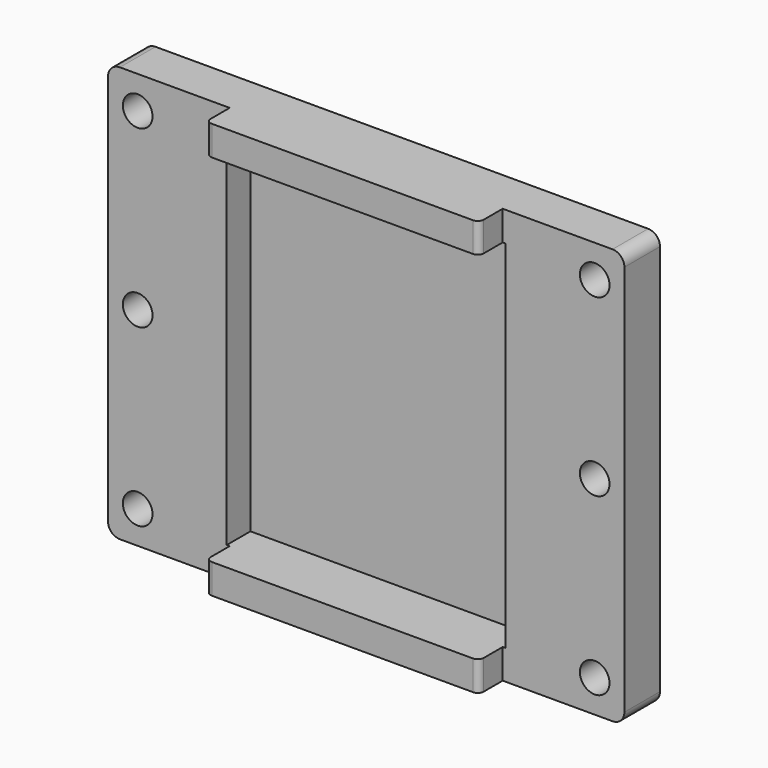
from build123d import *

# Parameters (mm, degrees)
F0_W     = 87
F0_H     = 70
F0_R     = 2.5
F1_DEPTH = 7.5
F2_W     = 47
F2_H     = 60
F3_DEPTH = 5
F4_W     = 46
F4_H     = 5
F5_DEPTH = 5
F6_R     = 1
F7_R     = 2


with BuildPart() as f1:
    # F0 (on Front) → F1 (new body)
    with BuildSketch(Plane.XZ):
        with Locations((-55.98273, 20.347756)):
            Rectangle(F0_W, F0_H)
        with Locations((-94.48273, -9.152244)):
            Circle(F0_R, mode=Mode.SUBTRACT)
        with Locations((-17.48273, -9.152244)):
            Circle(F0_R, mode=Mode.SUBTRACT)
        with Locations((-94.48273, 20.347756)):
            Circle(F0_R, mode=Mode.SUBTRACT)
        with Locations((-94.48273, 49.847756)):
            Circle(F0_R, mode=Mode.SUBTRACT)
        with Locations((-17.48273, 20.347756)):
            Circle(F0_R, mode=Mode.SUBTRACT)
        with Locations((-17.48273, 49.847756)):
            Circle(F0_R, mode=Mode.SUBTRACT)
    extrude(amount=F1_DEPTH)

    # F2 (on face) → F3 (cut)
    with BuildSketch(Plane.XZ.offset(7.5)):
        with Locations((-55.98273, 20.347756)):
            Rectangle(F2_W, F2_H)
    extrude(amount=-F3_DEPTH, mode=Mode.SUBTRACT)

    # F4 (on face) → F5 (join)
    with BuildSketch(Plane.XZ.offset(7.5)):
        with Locations((-55.98273, 52.847756)):
            Rectangle(F4_W, F4_H)
        with Locations((-55.98273, -12.152244)):
            Rectangle(F4_W, F4_H)
    extrude(amount=F5_DEPTH)

    # F6
    f6_edges = [f1.edges().sort_by_distance(p)[0] for p in [
        (-78.98273, -12.5, 52.847756),
        (-32.98273, -12.5, 52.847756),
        (-32.98273, -12.5, -12.152244),
        (-78.98273, -12.5, -12.152244),
    ]]
    fillet(f6_edges, radius=F6_R)

    # F7
    f7_edges = [f1.edges().sort_by_distance(p)[0] for p in [
        (-99.48273, -3.75, -14.652244),
        (-12.48273, -3.75, -14.652244),
        (-12.48273, -3.75, 55.347756),
        (-99.48273, -3.75, 55.347756),
    ]]
    fillet(f7_edges, radius=F7_R)


solid = f1.part
